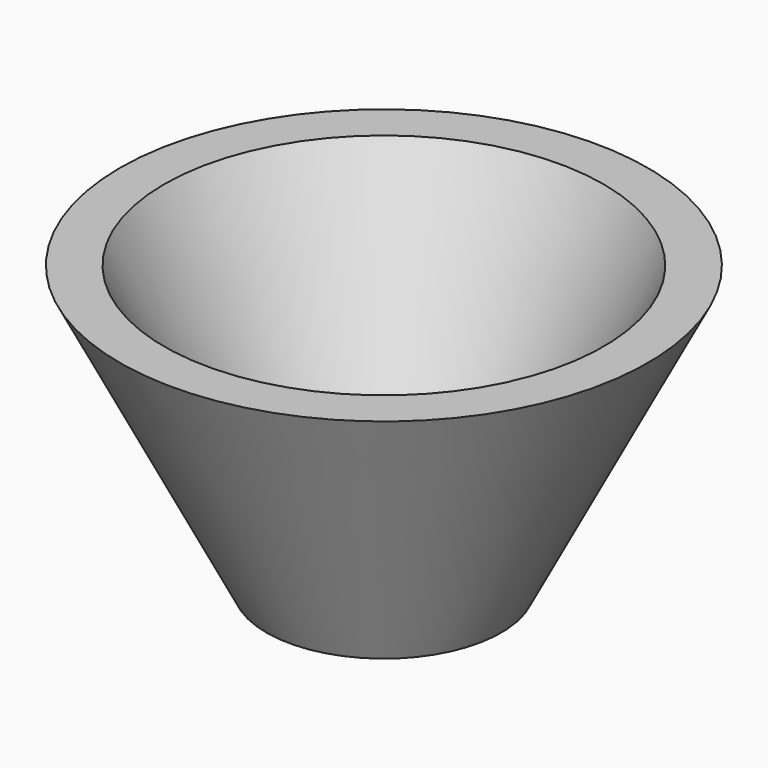
from build123d import *

# Parameters (mm, degrees)
F2_W     = 5.632173
F2_H     = 2.54
F3_DEPTH = 25.4


with BuildPart() as f1:
    # F0 (on Front) → F1 (revolve)
    with BuildSketch(Plane.XZ):
        Polygon((-9.306035, 0), (0, 0), (0, 3.175), (-7.434009, 3.175), (-17.411153, 22.59206), (-20.914602, 22.59206), align=None)
    revolve(axis=Axis((0, 0, 1.5875), (0, 0, -1)))

    # F2 (on face) → F3 (cut)
    with BuildSketch(Plane.XY.offset(3.175)):
        with Locations((0.276086, 0)):
            Rectangle(F2_W, F2_H)
    extrude(amount=-F3_DEPTH, mode=Mode.SUBTRACT)


solid = f1.part
